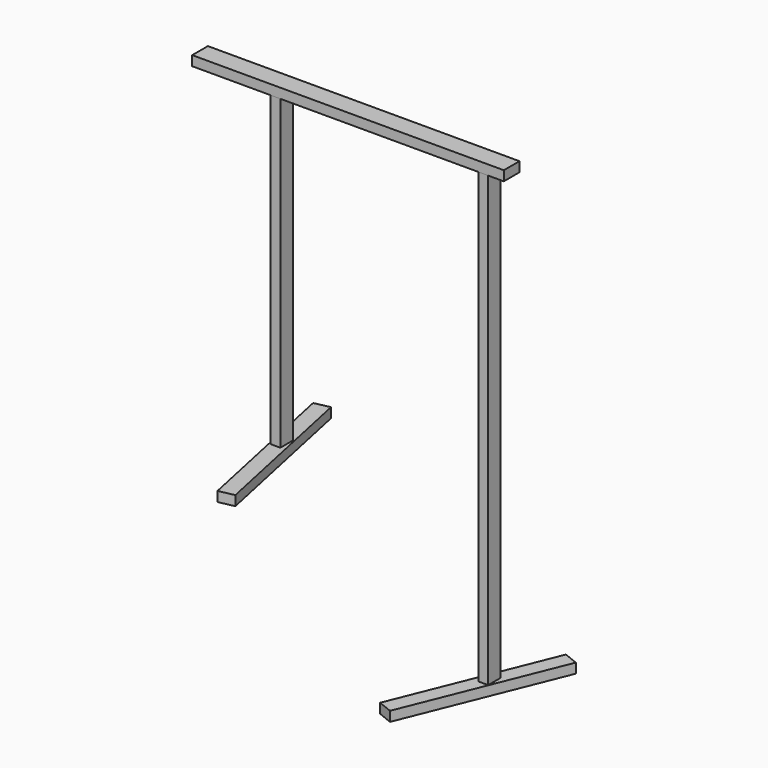
from build123d import *

# Parameters (mm, degrees)
F1_DEPTH  = 50
F4_W      = 80
F4_H      = 2291
F5_DEPTH  = 50
F7_W      = 50
F7_H      = 80
F8_DEPTH  = 1569
F10_DEPTH = 100


with BuildPart() as f1:
    # F0 (on Top) → F1 (new body)
    with BuildSketch(Plane.XY):
        Polygon((-26.6731233401, 446.1124571509), (-104.9249313988, 429.4795218855), (71.8000057963, -401.9459387382), (150.051813855, -385.3130034728), align=None)
    extrude(amount=F1_DEPTH)


with BuildPart() as f1b:
    # F0 (on Top) → F1, piece 2 (new body)
    with BuildSketch(Plane.XY):
        Polygon((1247.5015850252, 416.1439296777), (1173.3268766599, 446.1124571509), (854.9112722564, -341.9938192308), (929.0859806217, -371.9623467041), align=None)
    extrude(amount=F1_DEPTH)


with BuildPart() as f1b_1:
    # F3: moved
    add(f1b.part.moved(Location((0, 0, -722))))


with BuildPart() as f5:
    # F4 (on Right) → F5 (new body)
    with BuildSketch(Plane.YZ):
        with Locations((86.1124571509, 473.5)):
            Rectangle(F4_W, F4_H)
    extrude(amount=F5_DEPTH)


with BuildPart() as f5_1:
    # F6: moved
    add(f5.part.moved(Location((1046, 0, 0))))


with BuildPart() as f8:
    # F7 (on face) → F8 (new body)
    with BuildSketch(Plane.XY.offset(50)):
        with Locations((9.4891801476, 86.1124571509)):
            Rectangle(F7_W, F7_H)
    extrude(amount=F8_DEPTH)


with BuildPart() as f10:
    # F9 (on face) → F10 (new body)
    with BuildSketch(Plane.XZ.offset(-46.1124571509)):
        Polygon((-415.5108198524, 1669), (-415.5108198524, 1619), (-15.5108198524, 1619), (34.4891801476, 1619), (1176, 1619), (1176, 1669), align=None)
    extrude(amount=-F10_DEPTH)


solid = Compound([f1.part, f1b_1.part, f5_1.part, f8.part, f10.part])
